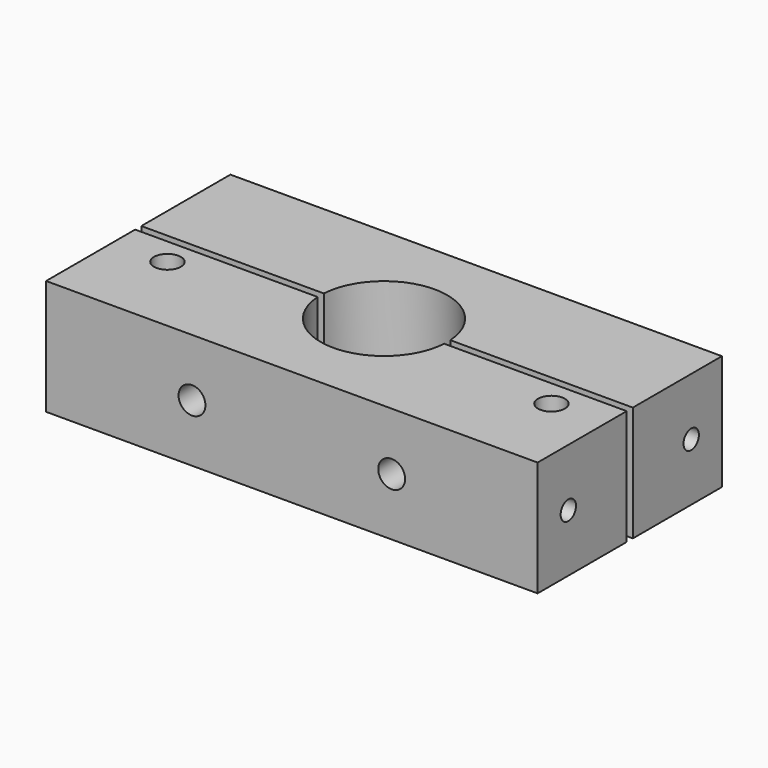
from build123d import *

# Parameters (mm, degrees)
F0_W      = 64
F0_H      = 30
F0_R      = 1.75
F0_R_2    = 8.25
F1_DEPTH  = 15
F0_R_3    = 6.25
F2_DEPTH  = 5.5
F3_W      = 1
F3_H      = 15
F4_DEPTH  = 64.001
F6_R      = 1.75
F7_DEPTH  = 30.001
F8_R      = 1.25
F9_DEPTH  = 10
F10_R     = 1.25
F11_DEPTH = 10


with BuildPart() as f1:
    # F0 (on Top) → F1 (new body)
    with BuildSketch(Plane.XY):
        with Locations((-32, 15)):
            Rectangle(F0_W, F0_H)
        with Locations((-57, 11)):
            Circle(F0_R, mode=Mode.SUBTRACT)
        with Locations((-7, 11)):
            Circle(F0_R, mode=Mode.SUBTRACT)
        with Locations((-32, 15)):
            Circle(F0_R_2, mode=Mode.SUBTRACT)
    extrude(amount=F1_DEPTH)

    # F0 (on Top) → F2 (join)
    with BuildSketch(Plane.XY):
        with Locations((-32, 15)):
            Circle(F0_R_2)
        with Locations((-32, 15)):
            Circle(F0_R_3, mode=Mode.SUBTRACT)
    extrude(amount=F2_DEPTH)

    # F3 (on face) → F4 (cut, through all)
    with BuildSketch(Plane.YZ):
        with Locations((15, 7.5)):
            Rectangle(F3_W, F3_H)
    extrude(amount=-F4_DEPTH, mode=Mode.SUBTRACT)

    # F6 (on face) → F7 (cut, through all)
    with BuildSketch(Plane.XZ):
        with Locations((-45, 7.5)):
            Circle(F6_R)
        with Locations((-19, 7.5)):
            Circle(F6_R)
    extrude(amount=-F7_DEPTH, mode=Mode.SUBTRACT)

    # F8 (on face) → F9 (cut)
    with BuildSketch(Plane.YZ):
        with Locations((5, 7.5)):
            Circle(F8_R)
        with Locations((25, 7.5)):
            Circle(F8_R)
    extrude(amount=-F9_DEPTH, mode=Mode.SUBTRACT)

    # F10 (on face) → F11 (cut)
    with BuildSketch(Plane(origin=(-64, 0, 0), x_dir=(0, -1, 0), z_dir=(-1, 0, 0))):
        with Locations((-25, 7.5)):
            Circle(F10_R)
        with Locations((-6.25, 7.5)):
            Circle(F10_R)
    extrude(amount=-F11_DEPTH, mode=Mode.SUBTRACT)


solid = f1.part
